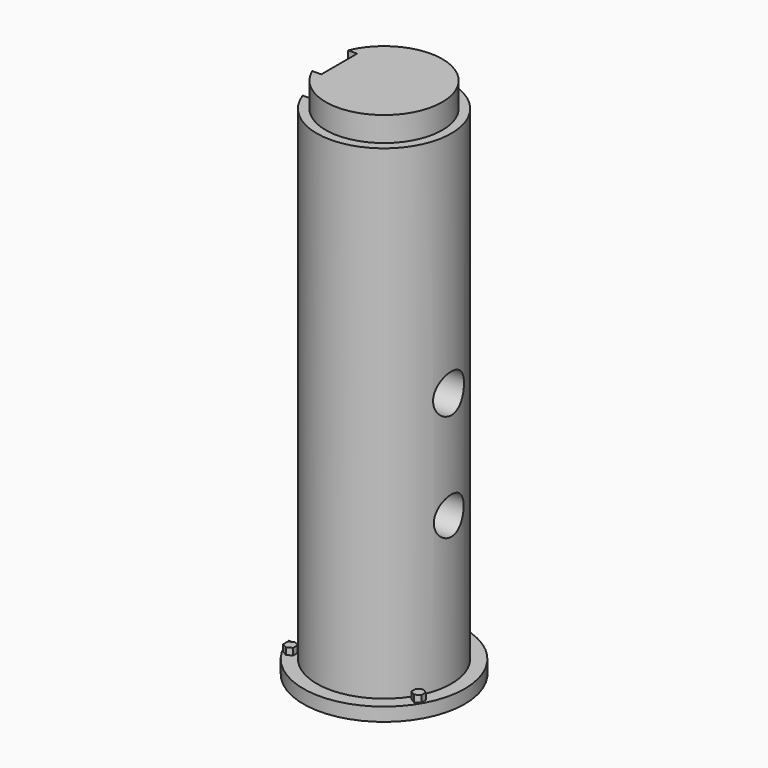
from build123d import *

# Parameters (mm, degrees)
SKETCH_R           = 18
PAD_DEPTH          = 3
SKETCH001_R        = 15
PAD001_DEPTH       = 108
SKETCH002_R        = 9.5
PAD002_DEPTH       = 2.5
SKETCH003_R        = 13
PAD003_DEPTH       = 5.5
PAD004_DEPTH       = 1.5
POLARPATTERN_COUNT = 3
SKETCH009_W        = 8
SKETCH009_H        = 10
POCKET_DEPTH       = 118
SKETCH010_R        = 4.15
POCKET001_DEPTH    = 25
SKETCH011_R        = 4.3
POCKET002_DEPTH    = 25


with BuildPart() as part:
    # Sketch → Pad (new body)
    with BuildSketch(Plane.XY):
        Circle(SKETCH_R)
    extrude(amount=PAD_DEPTH)

    # Sketch001 (on Face3 of Pad) → Pad001 (join)
    with BuildSketch(Plane.XY.offset(3)):
        Circle(SKETCH001_R)
    extrude(amount=PAD001_DEPTH)

    # Sketch002 (on Face2 of Pad001) → Pad002 (join)
    with BuildSketch(Plane(origin=(0, 0, 0), x_dir=(1, 0, 0), z_dir=(0, 0, -1))):
        Circle(SKETCH002_R)
    extrude(amount=PAD002_DEPTH)

    # Sketch003 (on Face7 of Pad002) → Pad003 (join)
    with BuildSketch(Plane.XY.offset(111)):
        Circle(SKETCH003_R)
    extrude(amount=PAD003_DEPTH)

    # Sketch008 (on Face3 of Pad003) → Pad004 (join)
    with BuildSketch(Plane.XY.offset(3)):
        Polygon((-1.11579, 17.121659), (-0.012041, 17.758909), (1.091708, 17.121659), (1.091708, 15.84716), (-0.012041, 15.209911), (-1.11579, 15.84716), align=None)
    pad004 = extrude(amount=PAD004_DEPTH)

    # PolarPattern: Pad004 ×3 about axis
    polarpattern_axis = Axis((0, 0, 3), (0, 0, 1))
    for i in range(1, POLARPATTERN_COUNT):
        add(pad004.rotate(polarpattern_axis, i * 360 / POLARPATTERN_COUNT))

    # Sketch009 (on Face2 of PolarPattern) → Pocket (cut)
    with BuildSketch(Plane(origin=(0, 0, 0), x_dir=(1, 0, 0), z_dir=(0, 0, -1))):
        with Locations((-14, 0)):
            Rectangle(SKETCH009_W, SKETCH009_H)
    extrude(amount=-POCKET_DEPTH, mode=Mode.SUBTRACT)

    # Sketch010 (on Face7 of Pocket) → Pocket001 (cut)
    with BuildSketch(Plane(origin=(-10, 0, 0), x_dir=(0, -1, 0), z_dir=(-1, 0, 0))):
        with Locations((0, 36)):
            Circle(SKETCH010_R)
    extrude(amount=-POCKET001_DEPTH, mode=Mode.SUBTRACT)

    # Sketch011 → Pocket002 (cut)
    with BuildSketch(Plane(origin=(-10, 0, 0), x_dir=(0, -1, 0), z_dir=(-1, 0, 0))):
        with Locations((0, 60)):
            Circle(SKETCH011_R)
    extrude(amount=-POCKET002_DEPTH, mode=Mode.SUBTRACT)


solid = part.part
